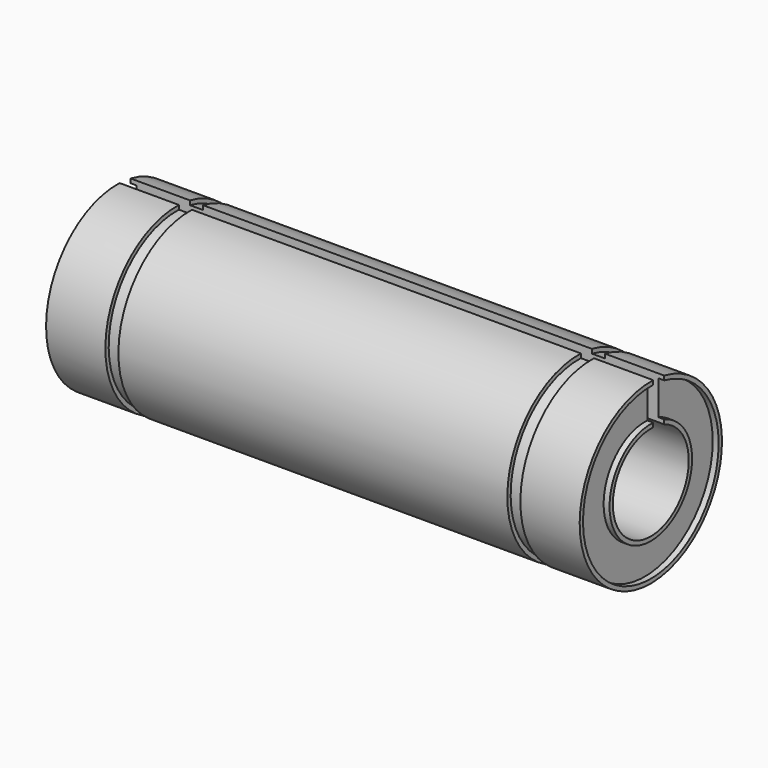
from build123d import *

# Parameters (mm, degrees)
F0_R      = 7.5
F0_R_2    = 4
F1_DEPTH  = 22.5
F4_R      = 8
F4_R_2    = 7.15
F5_DEPTH  = 1.1
F6_R      = 8
F6_R_2    = 7.15
F7_DEPTH  = 1.1
F8_R      = 7.15
F8_R_2    = 4.35
F9_DEPTH  = 0.5
F11_R     = 7.15
F11_R_2   = 4.35
F12_DEPTH = 0.5
F13_W     = 1.1570598217
F13_H     = 15.1530206203
F14_DEPTH = 499.5


with BuildPart() as f1:
    # F0 (on Right) → F1 (new body, symmetric)
    with BuildSketch(Plane.YZ):
        Circle(F0_R)
        Circle(F0_R_2, mode=Mode.SUBTRACT)
    extrude(amount=F1_DEPTH, both=True)

    # F4 (on offset) → F5 (cut)
    with BuildSketch(Plane.YZ.offset(-17.5)):
        Circle(F4_R)
        Circle(F4_R_2, mode=Mode.SUBTRACT)
    extrude(amount=F5_DEPTH, mode=Mode.SUBTRACT)

    # F6 (on offset) → F7 (cut)
    with BuildSketch(Plane.YZ.offset(17.5)):
        Circle(F6_R)
        Circle(F6_R_2, mode=Mode.SUBTRACT)
    extrude(amount=-F7_DEPTH, mode=Mode.SUBTRACT)

    # F8 (on face) → F9 (cut)
    with BuildSketch(Plane.YZ.offset(22.5)):
        Circle(F8_R)
        Circle(F8_R_2, mode=Mode.SUBTRACT)
    extrude(amount=-F9_DEPTH, mode=Mode.SUBTRACT)

    # F11 (on face) → F12 (cut)
    with BuildSketch(Plane(origin=(-22.5, 0, 0), x_dir=(0, -1, 0), z_dir=(-1, 0, 0))):
        Circle(F11_R)
        Circle(F11_R_2, mode=Mode.SUBTRACT)
    extrude(amount=-F12_DEPTH, mode=Mode.SUBTRACT)

    # F13 (on face) → F14 (cut, symmetric)
    with BuildSketch(Plane.YZ.offset(22)):
        with Locations((0.8341596586, 7.5765103102)):
            Rectangle(F13_W, F13_H)
    extrude(amount=F14_DEPTH, both=True, mode=Mode.SUBTRACT)


solid = f1.part
